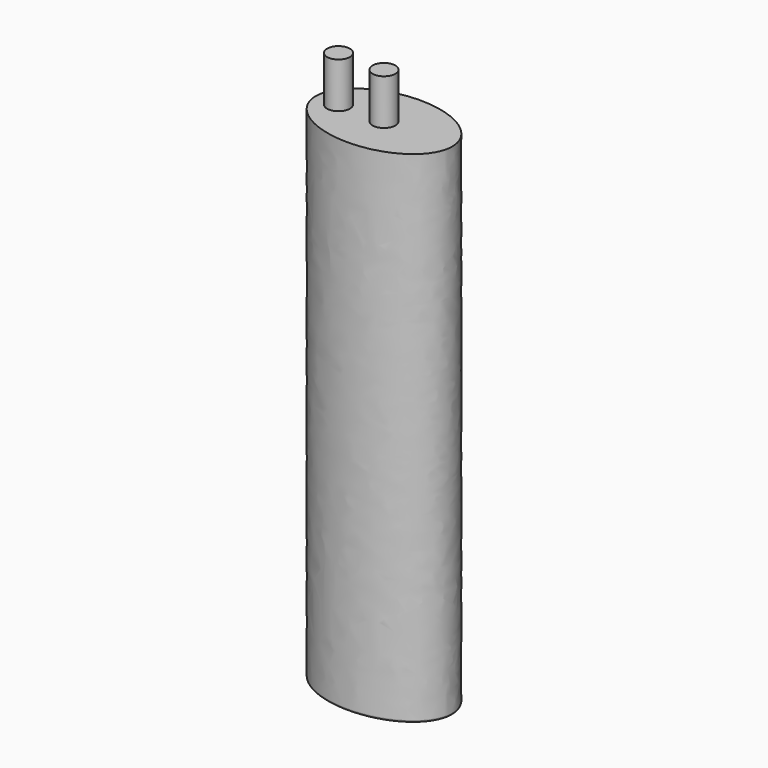
from build123d import *

# Parameters (mm, degrees)
F1_DEPTH = 139.7
F2_R     = 3.175
F3_DEPTH = 12.7
F4_R     = 0.508


with BuildPart() as f1:
    # F0 (on Top) → F1 (new body)
    with BuildSketch(Plane.XY):
        with BuildLine():
            Line((-19.05, 0), (0, 0))
            Line((0, 0), (0, -12.7))
            add(Edge.make_bspline(
                [(0, -12.7), (45.990768, -12.7), (13.470384, 8.980256), (-19.05, 30.660512), (-19.05, 0)],
                knots=[1.570796, 1.570796, 1.570796, 3.926991, 3.926991, 6.283185, 6.283185, 6.283185], degree=2, weights=[1, 0.382683, 1, 0.382683, 1]))
        make_face()
        with BuildLine():
            Line((0, -12.7), (0, 0))
            Line((0, 0), (-19.05, 0))
            add(Edge.make_bspline(
                [(-19.05, 0), (-19.05, -12.7), (0, -12.7)],
                knots=[0, 0, 0, 1.570796, 1.570796, 1.570796], degree=2, weights=[1, 0.707107, 1]))
        make_face()
    extrude(amount=F1_DEPTH)

    # F2 (on face) → F3 (join)
    with BuildSketch(Plane.XY.offset(139.7)):
        with Locations((-12.7, 0)):
            Circle(F2_R)
        with BuildLine():
            ThreePointArc((3.175, 0), (0, 3.175), (-3.175, 0))
            ThreePointArc((-3.175, 0), (0, -3.175), (3.175, 0))
        make_face()
    extrude(amount=F3_DEPTH)

    # F4
    f4_edges = [f1.edges().sort_by_distance(p)[0] for p in [
        (12.122034, 9.797024, 0),
    ]]
    fillet(f4_edges, radius=F4_R)


solid = f1.part
